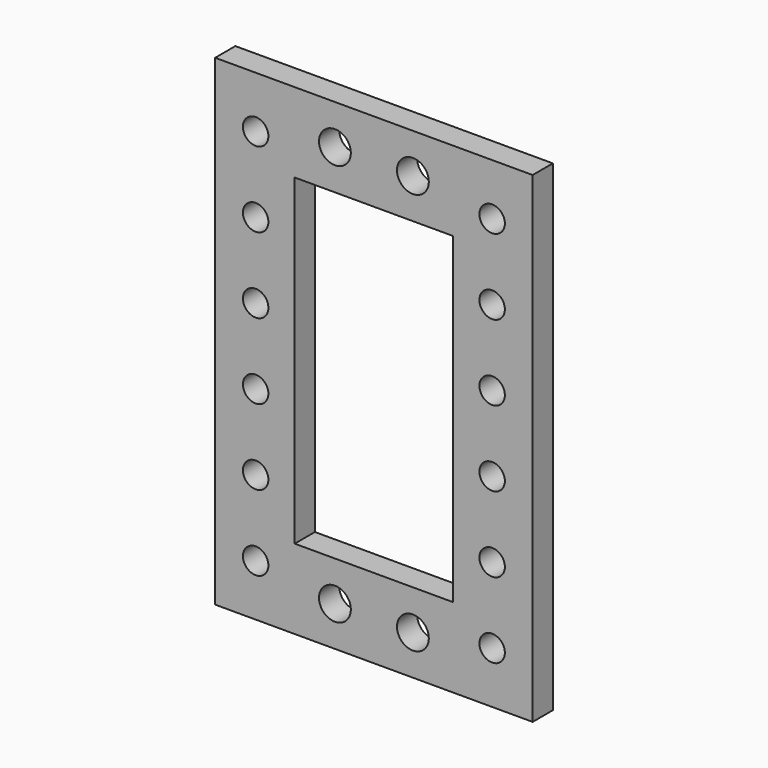
from build123d import *

# Parameters (mm, degrees)
F0_W     = 39.9
F0_H     = 60.513
F0_R     = 1.6
F0_R_2   = 2
F0_W_2   = 19.9
F0_H_2   = 40.513
F1_DEPTH = 3.175


with BuildPart() as f1:
    # F0 (on Front) → F1 (new body)
    with BuildSketch(Plane.XZ):
        with Locations((9.95, -20.2565)):
            Rectangle(F0_W, F0_H)
        with Locations((-4.910856, -44)):
            Circle(F0_R, mode=Mode.SUBTRACT)
        with Locations((5.0517, -45.513)):
            Circle(F0_R_2, mode=Mode.SUBTRACT)
        with Locations((-4.910856, -34.5)):
            Circle(F0_R, mode=Mode.SUBTRACT)
        with Locations((-4.910856, -25)):
            Circle(F0_R, mode=Mode.SUBTRACT)
        with Locations((14.8517, -45.513)):
            Circle(F0_R_2, mode=Mode.SUBTRACT)
        with Locations((24.810856, -44)):
            Circle(F0_R, mode=Mode.SUBTRACT)
        with Locations((24.810856, -34.5)):
            Circle(F0_R, mode=Mode.SUBTRACT)
        with Locations((24.810856, -25)):
            Circle(F0_R, mode=Mode.SUBTRACT)
        with Locations((-4.910856, -15.5)):
            Circle(F0_R, mode=Mode.SUBTRACT)
        with Locations((-4.910856, -6)):
            Circle(F0_R, mode=Mode.SUBTRACT)
        with Locations((-4.910856, 3.5)):
            Circle(F0_R, mode=Mode.SUBTRACT)
        with Locations((5.0517, 5)):
            Circle(F0_R_2, mode=Mode.SUBTRACT)
        with Locations((9.95, -20.2565)):
            Rectangle(F0_W_2, F0_H_2, mode=Mode.SUBTRACT)
        with Locations((24.810856, -15.5)):
            Circle(F0_R, mode=Mode.SUBTRACT)
        with Locations((24.810856, -6)):
            Circle(F0_R, mode=Mode.SUBTRACT)
        with Locations((14.8517, 5)):
            Circle(F0_R_2, mode=Mode.SUBTRACT)
        with Locations((24.810856, 3.5)):
            Circle(F0_R, mode=Mode.SUBTRACT)
    extrude(amount=F1_DEPTH)


solid = f1.part
